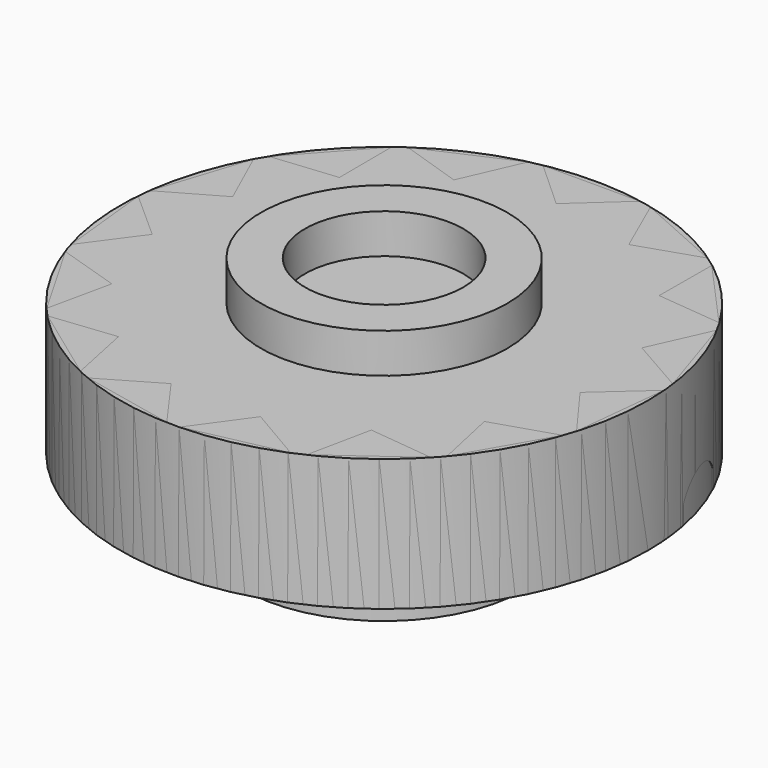
from build123d import *

# Parameters (mm, degrees)
SKETCH_R           = 6
PAD_DEPTH          = 3
SKETCH001_R        = 2.8
PAD001_DEPTH       = 0.9
SKETCH002_R        = 1.8
POCKET_DEPTH       = 1.1
SKETCH003_R        = 3.2
PAD002_DEPTH       = 1.7
SKETCH004_R        = 2.3
POCKET001_DEPTH    = 2.6
POCKET003_DEPTH    = 37.468376
POLARPATTERN_COUNT = 15
SKETCH008_R        = 0.85
POCKET004_DEPTH    = 1.607836


with BuildPart() as main_body:
    # Sketch → Pad (new body)
    with BuildSketch(Plane.XY):
        Circle(SKETCH_R)
    extrude(amount=PAD_DEPTH)


with BuildPart() as pocket001:
    # Pad001 base: copy of main-body
    add(main_body.part)

    # Sketch001 → Pad001 (new body)
    with BuildSketch(Plane.XY.offset(3)):
        Circle(SKETCH001_R)
    extrude(amount=PAD001_DEPTH)

    # Sketch002 → Pocket (cut)
    with BuildSketch(Plane.XY.offset(3.9)):
        Circle(SKETCH002_R)
    extrude(amount=-POCKET_DEPTH, mode=Mode.SUBTRACT)

    # Sketch003 → Pad002 (new body)
    with BuildSketch(Plane(origin=(0, 0, 0), x_dir=(1, 0, 0), z_dir=(0, 0, -1))):
        Circle(SKETCH003_R)
    extrude(amount=PAD002_DEPTH)

    # Sketch004 → Pocket001 (cut)
    with BuildSketch(Plane(origin=(0, 0, -1.7), x_dir=(1, 0, 0), z_dir=(0, 0, -1))):
        Circle(SKETCH004_R)
    extrude(amount=-POCKET001_DEPTH, mode=Mode.SUBTRACT)


with BuildPart() as pocket004:
    # Pocket003 base: copy of main-body
    add(main_body.part)

    # Sketch007 → Pocket003 (cut, through all)
    with BuildSketch(Plane.XY.offset(3)):
        Polygon((-1.1, 5.889533), (0, 4.889533), (1.1, 5.889533), align=None)
    pocket003 = extrude(amount=-POCKET003_DEPTH, mode=Mode.SUBTRACT)

    # PolarPattern: Pocket003 ×15 about axis
    polarpattern_axis = Axis((0, 0, 3), (0, 0, 1))
    for i in range(1, POLARPATTERN_COUNT):
        add(pocket003.rotate(polarpattern_axis, i * 360 / POLARPATTERN_COUNT), mode=Mode.SUBTRACT)

    # Sketch008 → Pocket004 (cut, through all)
    with BuildSketch(Plane(origin=(5.662215, 1.839765, 0), x_dir=(0.309017, -0.951057, 0), z_dir=(-0.951057, -0.309017, 0))):
        Circle(SKETCH008_R)
    extrude(amount=-POCKET004_DEPTH, mode=Mode.SUBTRACT)


solid = Compound([pocket001.part, pocket004.part])
